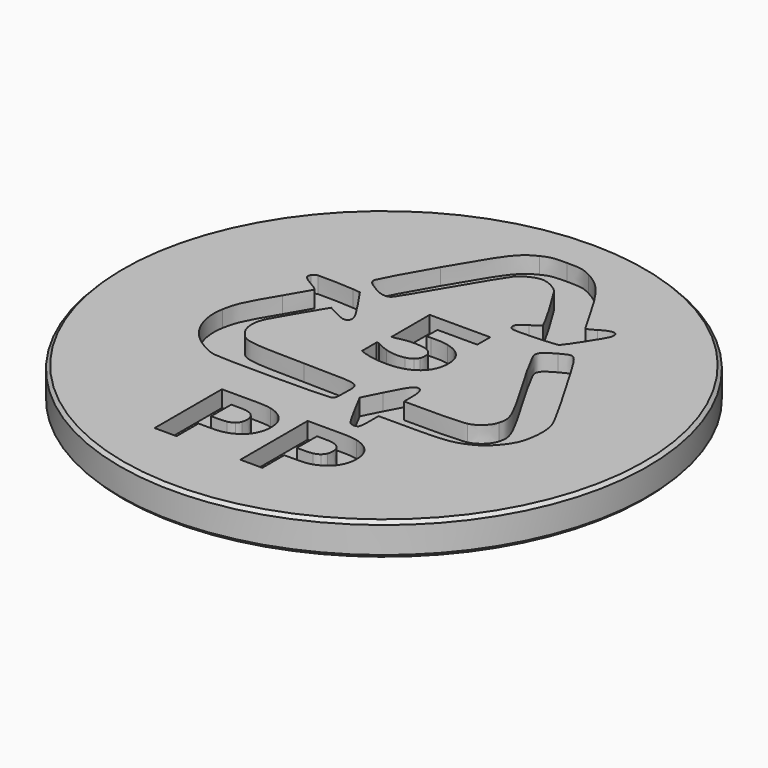
from build123d import *

# Parameters (mm, degrees)
POCKET_DEPTH = 1.25


with BuildPart() as part:
    # Sketch (on DatumPlane) → Revolution (revolve)
    with BuildSketch(Plane.YZ):
        Polygon((0, 0), (0, -2.5), (19.75, -2.5), (20, -2.25), (20, -0.25), (19.75, 0), align=None)
    revolve(axis=Axis((0, 0, 0), (0, 0, 1)))

    # Sketch005 → Pocket (cut)
    with BuildSketch(Plane.XY):
        with BuildLine():
            add(Edge.make_bspline(
                [(2.854159, 2.517489), (2.854159, 2.186306), (2.79129, 1.879033), (2.665551, 1.595314)],
                knots=[0, 0, 0, 0, 1, 1, 1, 1], degree=3))
            add(Edge.make_bspline(
                [(2.665551, 1.595314), (2.540173, 1.311595), (2.357346, 1.068203), (2.117792, 0.865853)],
                knots=[0, 0, 0, 0, 1, 1, 1, 1], degree=3))
            add(Edge.make_bspline(
                [(2.117792, 0.865853), (1.851862, 0.649227), (1.546548, 0.488632), (1.201489, 0.384423)],
                knots=[0, 0, 0, 0, 1, 1, 1, 1], degree=3))
            add(Edge.make_bspline(
                [(1.201489, 0.384423), (0.85643, 0.280571), (0.462954, 0.228467), (0.021062, 0.228467)],
                knots=[0, 0, 0, 0, 1, 1, 1, 1], degree=3))
            add(Edge.make_bspline(
                [(0.021062, 0.228467), (-0.495623, 0.231322), (-0.932457, 0.272006), (-1.289079, 0.350163)],
                knots=[0, 0, 0, 0, 1, 1, 1, 1], degree=3))
            add(Edge.make_bspline(
                [(-1.289079, 0.350163), (-1.6457, 0.428676), (-1.936561, 0.516468), (-2.162024, 0.613539)],
                knots=[0, 0, 0, 0, 1, 1, 1, 1], degree=3))
            add(Edge.make_bspline(
                [(-2.162024, 0.613539), (-2.162024, 2.021071)],
                knots=[0, 0, 3.944, 3.944], degree=1))
            add(Edge.make_bspline(
                [(-2.162024, 2.021071), (-1.979919, 2.021071)],
                knots=[0, 0, 0.504, 0.504], degree=1))
            add(Edge.make_bspline(
                [(-1.979919, 2.021071), (-1.717241, 1.866899), (-1.434329, 1.738779), (-1.131182, 1.635998)],
                knots=[0, 0, 0, 0, 1, 1, 1, 1], degree=3))
            add(Edge.make_bspline(
                [(-1.131182, 1.635998), (-0.827675, 1.533217), (-0.525974, 1.481826), (-0.225719, 1.481826)],
                knots=[0, 0, 0, 0, 1, 1, 1, 1], degree=3))
            add(Edge.make_bspline(
                [(-0.225719, 1.481826), (-0.043614, 1.481826), (0.153304, 1.502525), (0.365398, 1.543923)],
                knots=[0, 0, 0, 0, 1, 1, 1, 1], degree=3))
            add(Edge.make_bspline(
                [(0.365398, 1.543923), (0.577853, 1.585321), (0.745866, 1.660266), (0.87016, 1.768757)],
                knots=[0, 0, 0, 0, 1, 1, 1, 1], degree=3))
            add(Edge.make_bspline(
                [(0.87016, 1.768757), (0.968438, 1.856906), (1.04287, 1.94684), (1.093455, 2.038201)],
                knots=[0, 0, 0, 0, 1, 1, 1, 1], degree=3))
            add(Edge.make_bspline(
                [(1.093455, 2.038201), (1.143678, 2.129562), (1.16897, 2.270529), (1.16897, 2.461816)],
                knots=[0, 0, 0, 0, 1, 1, 1, 1], degree=3))
            add(Edge.make_bspline(
                [(1.16897, 2.461816), (1.16897, 2.609921), (1.135006, 2.737684), (1.06744, 2.844748)],
                knots=[0, 0, 0, 0, 1, 1, 1, 1], degree=3))
            add(Edge.make_bspline(
                [(1.06744, 2.844748), (0.999512, 2.951454), (0.912073, 3.037819), (0.805123, 3.103485)],
                knots=[0, 0, 0, 0, 1, 1, 1, 1], degree=3))
            add(Edge.make_bspline(
                [(0.805123, 3.103485), (0.649394, 3.197701), (0.461509, 3.259798), (0.242189, 3.289419)],
                knots=[0, 0, 0, 0, 1, 1, 1, 1], degree=3))
            add(Edge.make_bspline(
                [(0.242189, 3.289419), (0.022507, 3.319397), (-0.176579, 3.334386), (-0.355793, 3.334386)],
                knots=[0, 0, 0, 0, 1, 1, 1, 1], degree=3))
            add(Edge.make_bspline(
                [(-0.355793, 3.334386), (-0.615581, 3.334386), (-0.86453, 3.312259), (-1.103, 3.268006)],
                knots=[0, 0, 0, 0, 1, 1, 1, 1], degree=3))
            add(Edge.make_bspline(
                [(-1.103, 3.268006), (-1.341108, 3.22411), (-1.549589, 3.180571), (-1.728803, 3.137745)],
                knots=[0, 0, 0, 0, 1, 1, 1, 1], degree=3))
            add(Edge.make_bspline(
                [(-1.728803, 3.137745), (-1.919218, 3.137745)],
                knots=[0, 0, 0.527, 0.527], degree=1))
            add(Edge.make_bspline(
                [(-1.919218, 3.137745), (-1.919218, 6.731518)],
                knots=[0, 0, 10.07, 10.07], degree=1))
            add(Edge.make_bspline(
                [(-1.919218, 6.731518), (2.667719, 6.731518)],
                knots=[0, 0, 12.695, 12.695], degree=1))
            add(Edge.make_bspline(
                [(2.667719, 6.731518), (2.667719, 5.512062)],
                knots=[0, 0, 3.417, 3.417], degree=1))
            add(Edge.make_bspline(
                [(2.667719, 5.512062), (-0.355793, 5.512062)],
                knots=[0, 0, 8.368, 8.368], degree=1))
            add(Edge.make_bspline(
                [(-0.355793, 5.512062), (-0.355793, 4.472473)],
                knots=[0, 0, 2.913, 2.913], degree=1))
            add(Edge.make_bspline(
                [(-0.355793, 4.472473), (-0.266186, 4.478183), (-0.152732, 4.48318), (-0.015793, 4.487462)],
                knots=[0, 0, 0, 0, 1, 1, 1, 1], degree=3))
            add(Edge.make_bspline(
                [(-0.015793, 4.487462), (0.121508, 4.491745), (0.242189, 4.493886), (0.346248, 4.493886)],
                knots=[0, 0, 0, 0, 1, 1, 1, 1], degree=3))
            add(Edge.make_bspline(
                [(0.346248, 4.493886), (0.701424, 4.493886), (1.0183, 4.460339), (1.296877, 4.393246)],
                knots=[0, 0, 0, 0, 1, 1, 1, 1], degree=3))
            add(Edge.make_bspline(
                [(1.296877, 4.393246), (1.575453, 4.32651), (1.816091, 4.233007), (2.018068, 4.113096)],
                knots=[0, 0, 0, 0, 1, 1, 1, 1], degree=3))
            add(Edge.make_bspline(
                [(2.018068, 4.113096), (2.280747, 3.956426), (2.485976, 3.748722), (2.633032, 3.490699)],
                knots=[0, 0, 0, 0, 1, 1, 1, 1], degree=3))
            add(Edge.make_bspline(
                [(2.633032, 3.490699), (2.78045, 3.232675), (2.854159, 2.907915), (2.854159, 2.517489)],
                knots=[0, 0, 0, 0, 1, 1, 1, 1], degree=3))
        make_face()
        with BuildLine():
            add(Edge.make_bspline(
                [(-0.240894, -10.402248), (-0.240894, -10.687394), (-0.291479, -10.966473), (-0.392648, -11.238772)],
                knots=[0, 0, 0, 0, 1, 1, 1, 1], degree=3))
            add(Edge.make_bspline(
                [(-0.392648, -11.238772), (-0.493456, -11.511071), (-0.637983, -11.73983), (-0.825507, -11.925408)],
                knots=[0, 0, 0, 0, 1, 1, 1, 1], degree=3))
            add(Edge.make_bspline(
                [(-0.825507, -11.925408), (-1.082766, -12.176294), (-1.369291, -12.366153), (-1.685445, -12.494273)],
                knots=[0, 0, 0, 0, 1, 1, 1, 1], degree=3))
            add(Edge.make_bspline(
                [(-1.685445, -12.494273), (-2.001598, -12.622749), (-2.395074, -12.686988), (-2.865872, -12.686988)],
                knots=[0, 0, 0, 0, 1, 1, 1, 1], degree=3))
            add(Edge.make_bspline(
                [(-2.865872, -12.686988), (-3.901049, -12.686988)],
                knots=[0, 0, 2.865, 2.865], degree=1))
            add(Edge.make_bspline(
                [(-3.901049, -12.686988), (-3.901049, -14.761883)],
                knots=[0, 0, 5.814, 5.814], degree=1))
            add(Edge.make_bspline(
                [(-3.901049, -14.761883), (-5.564559, -14.761883)],
                knots=[0, 0, 4.604, 4.604], degree=1))
            add(Edge.make_bspline(
                [(-5.564559, -14.761883), (-5.564559, -8.391234)],
                knots=[0, 0, 17.851, 17.851], degree=1))
            add(Edge.make_bspline(
                [(-5.564559, -8.391234), (-2.82685, -8.391234)],
                knots=[0, 0, 7.577, 7.577], degree=1))
            add(Edge.make_bspline(
                [(-2.82685, -8.391234), (-2.416753, -8.391234), (-2.070972, -8.426208), (-1.789505, -8.496156)],
                knots=[0, 0, 0, 0, 1, 1, 1, 1], degree=3))
            add(Edge.make_bspline(
                [(-1.789505, -8.496156), (-1.508038, -8.566105), (-1.258728, -8.671027), (-1.042298, -8.810567)],
                knots=[0, 0, 0, 0, 1, 1, 1, 1], degree=3))
            add(Edge.make_bspline(
                [(-1.042298, -8.810567), (-0.78251, -8.979014), (-0.583785, -9.194212), (-0.446484, -9.456875)],
                knots=[0, 0, 0, 0, 1, 1, 1, 1], degree=3))
            add(Edge.make_bspline(
                [(-0.446484, -9.456875), (-0.309545, -9.719181), (-0.240894, -10.034305), (-0.240894, -10.402248)],
                knots=[0, 0, 0, 0, 1, 1, 1, 1], degree=3))
        make_face()
        with BuildLine():
            add(Edge.make_bspline(
                [(-1.960408, -10.44079), (-1.960408, -10.260923), (-2.009547, -10.106395), (-2.107826, -9.976491)],
                knots=[0, 0, 0, 0, 1, 1, 1, 1], degree=3))
            add(Edge.make_bspline(
                [(-2.107826, -9.976491), (-2.206105, -9.846944), (-2.31992, -9.756296), (-2.449994, -9.704906)],
                knots=[0, 0, 0, 0, 1, 1, 1, 1], degree=3))
            add(Edge.make_bspline(
                [(-2.449994, -9.704906), (-2.623427, -9.636385), (-2.792163, -9.598556), (-2.956924, -9.591418)],
                knots=[0, 0, 0, 0, 1, 1, 1, 1], degree=3))
            add(Edge.make_bspline(
                [(-2.956924, -9.591418), (-3.121324, -9.584281), (-3.341006, -9.580712), (-3.615246, -9.580712)],
                knots=[0, 0, 0, 0, 1, 1, 1, 1], degree=3))
            add(Edge.make_bspline(
                [(-3.615246, -9.580712), (-3.901049, -9.580712)],
                knots=[0, 0, 0.791, 0.791], degree=1))
            add(Edge.make_bspline(
                [(-3.901049, -9.580712), (-3.901049, -11.488944)],
                knots=[0, 0, 5.347, 5.347], degree=1))
            add(Edge.make_bspline(
                [(-3.901049, -11.488944), (-3.42447, -11.488944)],
                knots=[0, 0, 1.319, 1.319], degree=1))
            add(Edge.make_bspline(
                [(-3.42447, -11.488944), (-3.141558, -11.488944), (-2.908507, -11.471814), (-2.724958, -11.437554)],
                knots=[0, 0, 0, 0, 1, 1, 1, 1], degree=3))
            add(Edge.make_bspline(
                [(-2.724958, -11.437554), (-2.541769, -11.403293), (-2.387848, -11.335129), (-2.263916, -11.232348)],
                knots=[0, 0, 0, 0, 1, 1, 1, 1], degree=3))
            add(Edge.make_bspline(
                [(-2.263916, -11.232348), (-2.156965, -11.140987), (-2.079643, -11.031782), (-2.031949, -10.90509)],
                knots=[0, 0, 0, 0, 1, 1, 1, 1], degree=3))
            add(Edge.make_bspline(
                [(-2.031949, -10.90509), (-1.984255, -10.778041), (-1.960408, -10.623156), (-1.960408, -10.44079)],
                knots=[0, 0, 0, 0, 1, 1, 1, 1], degree=3))
        make_face(mode=Mode.SUBTRACT)
        with BuildLine():
            add(Edge.make_bspline(
                [(6.256694, -10.402248), (6.256694, -10.687394), (6.206109, -10.966473), (6.10494, -11.238772)],
                knots=[0, 0, 0, 0, 1, 1, 1, 1], degree=3))
            add(Edge.make_bspline(
                [(6.10494, -11.238772), (6.003771, -11.511071), (5.859605, -11.73983), (5.67172, -11.925408)],
                knots=[0, 0, 0, 0, 1, 1, 1, 1], degree=3))
            add(Edge.make_bspline(
                [(5.67172, -11.925408), (5.414822, -12.176294), (5.128297, -12.366153), (4.812143, -12.494273)],
                knots=[0, 0, 0, 0, 1, 1, 1, 1], degree=3))
            add(Edge.make_bspline(
                [(4.812143, -12.494273), (4.495628, -12.622749), (4.102153, -12.686988), (3.631716, -12.686988)],
                knots=[0, 0, 0, 0, 1, 1, 1, 1], degree=3))
            add(Edge.make_bspline(
                [(3.631716, -12.686988), (2.596539, -12.686988)],
                knots=[0, 0, 2.865, 2.865], degree=1))
            add(Edge.make_bspline(
                [(2.596539, -12.686988), (2.596539, -14.761883)],
                knots=[0, 0, 5.814, 5.814], degree=1))
            add(Edge.make_bspline(
                [(2.596539, -14.761883), (0.933029, -14.761883)],
                knots=[0, 0, 4.604, 4.604], degree=1))
            add(Edge.make_bspline(
                [(0.933029, -14.761883), (0.933029, -8.391234)],
                knots=[0, 0, 17.851, 17.851], degree=1))
            add(Edge.make_bspline(
                [(0.933029, -8.391234), (3.670738, -8.391234)],
                knots=[0, 0, 7.577, 7.577], degree=1))
            add(Edge.make_bspline(
                [(3.670738, -8.391234), (4.080835, -8.391234), (4.426616, -8.426208), (4.708083, -8.496156)],
                knots=[0, 0, 0, 0, 1, 1, 1, 1], degree=3))
            add(Edge.make_bspline(
                [(4.708083, -8.496156), (4.98955, -8.566105), (5.238499, -8.671027), (5.45529, -8.810567)],
                knots=[0, 0, 0, 0, 1, 1, 1, 1], degree=3))
            add(Edge.make_bspline(
                [(5.45529, -8.810567), (5.715078, -8.979014), (5.913803, -9.194212), (6.050743, -9.456875)],
                knots=[0, 0, 0, 0, 1, 1, 1, 1], degree=3))
            add(Edge.make_bspline(
                [(6.050743, -9.456875), (6.188043, -9.719181), (6.256694, -10.034305), (6.256694, -10.402248)],
                knots=[0, 0, 0, 0, 1, 1, 1, 1], degree=3))
        make_face()
        with BuildLine():
            add(Edge.make_bspline(
                [(4.536819, -10.44079), (4.536819, -10.260923), (4.487679, -10.106395), (4.389762, -9.976491)],
                knots=[0, 0, 0, 0, 1, 1, 1, 1], degree=3))
            add(Edge.make_bspline(
                [(4.389762, -9.976491), (4.291483, -9.846944), (4.177307, -9.756296), (4.047594, -9.704906)],
                knots=[0, 0, 0, 0, 1, 1, 1, 1], degree=3))
            add(Edge.make_bspline(
                [(4.047594, -9.704906), (3.874161, -9.636385), (3.705425, -9.598556), (3.540664, -9.591418)],
                knots=[0, 0, 0, 0, 1, 1, 1, 1], degree=3))
            add(Edge.make_bspline(
                [(3.540664, -9.591418), (3.375903, -9.584281), (3.156582, -9.580712), (2.882342, -9.580712)],
                knots=[0, 0, 0, 0, 1, 1, 1, 1], degree=3))
            add(Edge.make_bspline(
                [(2.882342, -9.580712), (2.596539, -9.580712)],
                knots=[0, 0, 0.791, 0.791], degree=1))
            add(Edge.make_bspline(
                [(2.596539, -9.580712), (2.596539, -11.488944)],
                knots=[0, 0, 5.347, 5.347], degree=1))
            add(Edge.make_bspline(
                [(2.596539, -11.488944), (3.072757, -11.488944)],
                knots=[0, 0, 1.318, 1.318], degree=1))
            add(Edge.make_bspline(
                [(3.072757, -11.488944), (3.355669, -11.488944), (3.589081, -11.471814), (3.772269, -11.437554)],
                knots=[0, 0, 0, 0, 1, 1, 1, 1], degree=3))
            add(Edge.make_bspline(
                [(3.772269, -11.437554), (3.955819, -11.403293), (4.109379, -11.335129), (4.233672, -11.232348)],
                knots=[0, 0, 0, 0, 1, 1, 1, 1], degree=3))
            add(Edge.make_bspline(
                [(4.233672, -11.232348), (4.340623, -11.140987), (4.417945, -11.031782), (4.465639, -10.90509)],
                knots=[0, 0, 0, 0, 1, 1, 1, 1], degree=3))
            add(Edge.make_bspline(
                [(4.465639, -10.90509), (4.512972, -10.778041), (4.536819, -10.623156), (4.536819, -10.44079)],
                knots=[0, 0, 0, 0, 1, 1, 1, 1], degree=3))
        make_face(mode=Mode.SUBTRACT)
        with BuildLine():
            add(Edge.make_bspline(
                [(3.028314, -6.958721), (2.93654, -6.853085), (2.548484, -6.174301), (2.165848, -5.449836)],
                knots=[0, 0, 0, 0, 1, 1, 1, 1], degree=3))
            add(Edge.make_bspline(
                [(2.165848, -5.449836), (1.470671, -4.132952)],
                knots=[0, 0, 4.161475, 4.161475], degree=1))
            add(Edge.make_bspline(
                [(1.470671, -4.132952), (2.16115, -2.766462)],
                knots=[0, 0, 4.279388, 4.279388], degree=1))
            add(Edge.make_bspline(
                [(2.16115, -2.766462), (2.918835, -1.267927), (3.095881, -1.016684), (3.395775, -1.016684)],
                knots=[0, 0, 0, 0, 1, 1, 1, 1], degree=3))
            add(Edge.make_bspline(
                [(3.395775, -1.016684), (3.696753, -1.016684), (3.826105, -1.360002), (3.826105, -2.159411)],
                knots=[0, 0, 0, 0, 1, 1, 1, 1], degree=3))
            add(Edge.make_bspline(
                [(3.826105, -2.159411), (3.826105, -2.878522)],
                knots=[0, 0, 2.015, 2.015], degree=1))
            add(Edge.make_bspline(
                [(3.826105, -2.878522), (5.939456, -2.878522)],
                knots=[0, 0, 5.849, 5.849], degree=1))
            add(Edge.make_bspline(
                [(5.939456, -2.878522), (7.150957, -2.878522), (8.266347, -2.825347), (8.553595, -2.753972)],
                knots=[0, 0, 0, 0, 1, 1, 1, 1], degree=3))
            add(Edge.make_bspline(
                [(8.553595, -2.753972), (9.19638, -2.59409), (9.756424, -2.073403), (9.916126, -1.487051)],
                knots=[0, 0, 0, 0, 1, 1, 1, 1], degree=3))
            add(Edge.make_bspline(
                [(9.916126, -1.487051), (10.160378, -0.591641), (10.088114, -0.434614), (7.0422, 4.761188)],
                knots=[0, 0, 0, 0, 1, 1, 1, 1], degree=3))
            add(Edge.make_bspline(
                [(7.0422, 4.761188), (6.538884, 5.619483), (6.126981, 6.444944), (6.126981, 6.59519)],
                knots=[0, 0, 0, 0, 1, 1, 1, 1], degree=3))
            add(Edge.make_bspline(
                [(6.126981, 6.59519), (6.126981, 6.969913), (6.297523, 7.143713), (7.10254, 7.588028)],
                knots=[0, 0, 0, 0, 1, 1, 1, 1], degree=3))
            add(Edge.make_bspline(
                [(7.10254, 7.588028), (7.68896, 7.912074), (7.834571, 7.952044), (8.056059, 7.850334)],
                knots=[0, 0, 0, 0, 1, 1, 1, 1], degree=3))
            add(Edge.make_bspline(
                [(8.056059, 7.850334), (8.220098, 7.774675), (8.625858, 7.194033), (9.148686, 6.28649)],
                knots=[0, 0, 0, 0, 1, 1, 1, 1], degree=3))
            add(Edge.make_bspline(
                [(9.148686, 6.28649), (9.605754, 5.49279), (10.536871, 3.892188), (11.217956, 2.729833)],
                knots=[0, 0, 0, 0, 1, 1, 1, 1], degree=3))
            add(Edge.make_bspline(
                [(11.217956, 2.729833), (11.950349, 1.479328), (12.510753, 0.39049), (12.590243, 0.063232)],
                knots=[0, 0, 0, 0, 1, 1, 1, 1], degree=3))
            add(Edge.make_bspline(
                [(12.590243, 0.063232), (12.796195, -0.785427), (12.680573, -2.047351), (12.330094, -2.774314)],
                knots=[0, 0, 0, 0, 1, 1, 1, 1], degree=3))
            add(Edge.make_bspline(
                [(12.330094, -2.774314), (11.95902, -3.543745), (11.208562, -4.321028), (10.488455, -4.681476)],
                knots=[0, 0, 0, 0, 1, 1, 1, 1], degree=3))
            add(Edge.make_bspline(
                [(10.488455, -4.681476), (9.444606, -5.203947), (8.85385, -5.28817), (6.242241, -5.28817)],
                knots=[0, 0, 0, 0, 1, 1, 1, 1], degree=3))
            add(Edge.make_bspline(
                [(6.242241, -5.28817), (3.826105, -5.28817)],
                knots=[0, 0, 6.687, 6.687], degree=1))
            add(Edge.make_bspline(
                [(3.826105, -5.28817), (3.826105, -6.045824)],
                knots=[0, 0, 2.123, 2.123], degree=1))
            add(Edge.make_bspline(
                [(3.826105, -6.045824), (3.826105, -6.462659), (3.795755, -6.881635), (3.7589, -6.976922)],
                knots=[0, 0, 0, 0, 1, 1, 1, 1], degree=3))
            add(Edge.make_bspline(
                [(3.7589, -6.976922), (3.668932, -7.20818), (3.236073, -7.197473), (3.028314, -6.958721)],
                knots=[0, 0, 0, 0, 1, 1, 1, 1], degree=3))
        make_face()
        with BuildLine():
            add(Edge.make_bspline(
                [(-8.760058, -5.185389), (-9.390089, -5.032645), (-10.293891, -4.498754), (-10.812455, -3.973071)],
                knots=[0, 0, 0, 0, 1, 1, 1, 1], degree=3))
            add(Edge.make_bspline(
                [(-10.812455, -3.973071), (-11.76377, -3.008426), (-12.164508, -1.728301), (-11.938467, -0.376443)],
                knots=[0, 0, 0, 0, 1, 1, 1, 1], degree=3))
            add(Edge.make_bspline(
                [(-11.938467, -0.376443), (-11.770079, 0.63067), (-11.51222, 1.19097), (-10.274958, 3.238028)],
                knots=[0, 0, 0, 0, 1, 1, 1, 1], degree=3))
            add(Edge.make_bspline(
                [(-10.274958, 3.238028), (-9.716215, 4.162702), (-9.259075, 4.958899), (-9.259075, 5.007435)],
                knots=[0, 0, 0, 0, 1, 1, 1, 1], degree=3))
            add(Edge.make_bspline(
                [(-9.259075, 5.007435), (-9.259075, 5.056327), (-9.522693, 5.242975), (-9.844917, 5.422485)],
                knots=[0, 0, 0, 0, 1, 1, 1, 1], degree=3))
            add(Edge.make_bspline(
                [(-9.844917, 5.422485), (-10.608671, 5.848242), (-10.753054, 6.020258), (-10.593532, 6.314683)],
                knots=[0, 0, 0, 0, 1, 1, 1, 1], degree=3))
            add(Edge.make_bspline(
                [(-10.593532, 6.314683), (-10.526182, 6.438877), (-10.360554, 6.545584), (-10.225457, 6.551651)],
                knots=[0, 0, 0, 0, 1, 1, 1, 1], degree=3))
            add(Edge.make_bspline(
                [(-10.225457, 6.551651), (-9.649732, 6.577346), (-8.050501, 6.529881), (-7.521531, 6.471353)],
                knots=[0, 0, 0, 0, 1, 1, 1, 1], degree=3))
            add(Edge.make_bspline(
                [(-7.521531, 6.471353), (-6.948119, 6.408185)],
                knots=[0, 0, 1.59684, 1.59684], degree=1))
            add(Edge.make_bspline(
                [(-6.948119, 6.408185), (-6.052049, 5.096655)],
                knots=[0, 0, 4.433512, 4.433512], degree=1))
            add(Edge.make_bspline(
                [(-6.052049, 5.096655), (-5.136107, 3.75586), (-4.992664, 3.349018), (-5.365906, 3.151664)],
                knots=[0, 0, 0, 0, 1, 1, 1, 1], degree=3))
            add(Edge.make_bspline(
                [(-5.365906, 3.151664), (-5.530306, 3.064942), (-5.734089, 3.123827), (-6.304972, 3.423249)],
                knots=[0, 0, 0, 0, 1, 1, 1, 1], degree=3))
            add(Edge.make_bspline(
                [(-6.304972, 3.423249), (-7.034474, 3.805466)],
                knots=[0, 0, 2.285476, 2.285476], degree=1))
            add(Edge.make_bspline(
                [(-7.034474, 3.805466), (-7.190925, 3.557435)],
                knots=[0, 0, 0.818849, 0.818849], degree=1))
            add(Edge.make_bspline(
                [(-7.190925, 3.557435), (-7.642212, 2.84332), (-8.883593, 0.724172), (-9.109851, 0.281642)],
                knots=[0, 0, 0, 0, 1, 1, 1, 1], degree=3))
            add(Edge.make_bspline(
                [(-9.109851, 0.281642), (-9.493354, -0.468518), (-9.469977, -1.285414), (-9.048607, -1.85999)],
                knots=[0, 0, 0, 0, 1, 1, 1, 1], degree=3))
            add(Edge.make_bspline(
                [(-9.048607, -1.85999), (-8.448168, -2.67867), (-8.292585, -2.705793), (-3.844178, -2.768604)],
                knots=[0, 0, 0, 0, 1, 1, 1, 1], degree=3))
            add(Edge.make_bspline(
                [(-3.844178, -2.768604), (0.747456, -2.833556), (0.388306, -2.715786), (0.388306, -4.155436)],
                knots=[0, 0, 0, 0, 1, 1, 1, 1], degree=3))
            add(Edge.make_bspline(
                [(0.388306, -4.155436), (0.388306, -4.939142), (0.3594, -5.076898), (0.173683, -5.175039)],
                knots=[0, 0, 0, 0, 1, 1, 1, 1], degree=3))
            add(Edge.make_bspline(
                [(0.173683, -5.175039), (-0.073459, -5.305657), (-8.22444, -5.314936), (-8.760275, -5.185389)],
                knots=[0, 0, 0, 0, 1, 1, 1, 1], degree=3))
            add(Edge.make_bspline(
                [(-8.760275, -5.185389), (-8.760058, -5.185389)],
                knots=[0, 0, 0.0006, 0.0006], degree=1))
        make_face()
        with BuildLine():
            add(Edge.make_bspline(
                [(-6.38663, 7.285751), (-7.124804, 7.713649), (-7.263189, 7.850334), (-7.263189, 8.149755)],
                knots=[0, 0, 0, 0, 1, 1, 1, 1], degree=3))
            add(Edge.make_bspline(
                [(-7.263189, 8.149755), (-7.263189, 8.29679), (-6.353389, 9.978047), (-5.240528, 11.887707)],
                knots=[0, 0, 0, 0, 1, 1, 1, 1], degree=3))
            add(Edge.make_bspline(
                [(-5.240528, 11.887707), (-3.043351, 15.657778), (-2.675891, 16.134925), (-1.549661, 16.679166)],
                knots=[0, 0, 0, 0, 1, 1, 1, 1], degree=3))
            add(Edge.make_bspline(
                [(-1.549661, 16.679166), (-0.945176, 16.971182), (-0.784389, 16.999343), (0.282584, 16.999982)],
                knots=[0, 0, 0, 0, 1, 1, 1, 1], degree=3))
            add(Edge.make_bspline(
                [(0.282584, 16.999982), (1.39689, 17.000647), (1.487942, 16.982789), (2.20552, 16.623261)],
                knots=[0, 0, 0, 0, 1, 1, 1, 1], degree=3))
            add(Edge.make_bspline(
                [(2.20552, 16.623261), (3.306096, 16.072025), (4.009583, 15.249526), (5.21205, 13.109286)],
                knots=[0, 0, 0, 0, 1, 1, 1, 1], degree=3))
            add(Edge.make_bspline(
                [(5.21205, 13.109286), (5.760893, 12.132151), (6.259874, 11.266719), (6.320936, 11.185708)],
                knots=[0, 0, 0, 0, 1, 1, 1, 1], degree=3))
            add(Edge.make_bspline(
                [(6.320936, 11.185708), (6.410182, 11.067938), (6.551457, 11.113975), (7.036708, 11.41875)],
                knots=[0, 0, 0, 0, 1, 1, 1, 1], degree=3))
            add(Edge.make_bspline(
                [(7.036708, 11.41875), (7.918686, 11.972269), (8.397433, 11.893042), (8.220748, 11.222823)],
                knots=[0, 0, 0, 0, 1, 1, 1, 1], degree=3))
            add(Edge.make_bspline(
                [(8.220748, 11.222823), (8.143787, 10.930896), (6.653711, 8.61368), (6.471606, 8.502691)],
                knots=[0, 0, 0, 0, 1, 1, 1, 1], degree=3))
            add(Edge.make_bspline(
                [(6.471606, 8.502691), (6.29167, 8.392772), (3.345118, 8.255374), (3.06329, 8.34388)],
                knots=[0, 0, 0, 0, 1, 1, 1, 1], degree=3))
            add(Edge.make_bspline(
                [(3.06329, 8.34388), (2.907201, 8.392772), (2.828072, 8.508401), (2.828072, 8.687554)],
                knots=[0, 0, 0, 0, 1, 1, 1, 1], degree=3))
            add(Edge.make_bspline(
                [(2.828072, 8.687554), (2.828072, 8.89847), (2.971877, 9.046218), (3.4882, 9.364554)],
                knots=[0, 0, 0, 0, 1, 1, 1, 1], degree=3))
            add(Edge.make_bspline(
                [(3.4882, 9.364554), (3.851325, 9.588674), (4.150858, 9.815649), (4.153749, 9.869538)],
                knots=[0, 0, 0, 0, 1, 1, 1, 1], degree=3))
            add(Edge.make_bspline(
                [(4.153749, 9.869538), (4.160253, 10.000869), (2.319336, 13.181733), (1.968134, 13.644605)],
                knots=[0, 0, 0, 0, 1, 1, 1, 1], degree=3))
            add(Edge.make_bspline(
                [(1.968134, 13.644605), (1.654148, 14.05912), (0.942713, 14.421959), (0.443732, 14.421959)],
                knots=[0, 0, 0, 0, 1, 1, 1, 1], degree=3))
            add(Edge.make_bspline(
                [(0.443732, 14.421959), (-0.003941, 14.421959), (-0.709958, 14.086493), (-1.072721, 13.701242)],
                knots=[0, 0, 0, 0, 1, 1, 1, 1], degree=3))
            add(Edge.make_bspline(
                [(-1.072721, 13.701242), (-1.235676, 13.528013), (-2.172936, 12.006173), (-3.15536, 10.319562)],
                knots=[0, 0, 0, 0, 1, 1, 1, 1], degree=3))
            add(Edge.make_bspline(
                [(-3.15536, 10.319562), (-4.137423, 8.632595), (-5.024099, 7.19116), (-5.125268, 7.115859)],
                knots=[0, 0, 0, 0, 1, 1, 1, 1], degree=3))
            add(Edge.make_bspline(
                [(-5.125268, 7.115859), (-5.408903, 6.904943), (-5.827671, 6.96133), (-6.38663, 7.285733)],
                knots=[0, 0, 0, 0, 1, 1, 1, 1], degree=3))
            add(Edge.make_bspline(
                [(-6.38663, 7.285733), (-6.38663, 7.285751)],
                knots=[0, 0, 5e-05, 5e-05], degree=1))
        make_face()
    extrude(amount=-POCKET_DEPTH, mode=Mode.SUBTRACT)


solid = part.part
